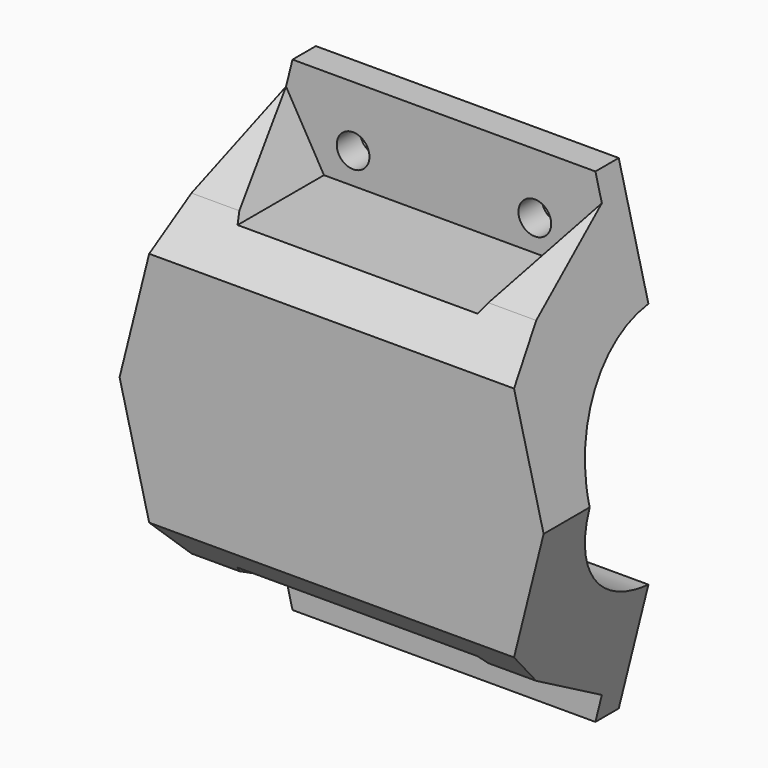
from build123d import *

# Parameters (mm, degrees)
PAD004_DEPTH         = 30
SKETCH011_R          = 20.5
POCKET004_DEPTH      = 42.931486
POCKET004_DEPTH_BACK = 27.070514
POCKET005_DEPTH      = 263.838706
POCKET005_DEPTH_BACK = 247.977735
SKETCH013_R          = 2.7
POCKET006_DEPTH      = 220.90822
POCKET006_DEPTH_BACK = 250.90822
POCKET007_DEPTH      = 244.092718
SKETCH024_W          = 115.08152
SKETCH024_H          = 98.641312
POCKET017_DEPTH      = 2


with BuildPart() as part:
    # Sketch010 → Pad004 (new body)
    with BuildSketch(Plane.XZ):
        Polygon((-27.069514, 0), (-17.069514, 40), (32.930486, 40), (42.930486, 0), (32.930486, -40), (-17.069514, -40), align=None)
    extrude(amount=PAD004_DEPTH)

    # Sketch011 → Pocket004 (cut, two sides)
    with BuildSketch(Plane.YZ) as pocket004_sk:
        Circle(SKETCH011_R)
    extrude(amount=POCKET004_DEPTH, mode=Mode.SUBTRACT)
    extrude(pocket004_sk.sketch, amount=-POCKET004_DEPTH_BACK, mode=Mode.SUBTRACT)

    # Sketch012 → Pocket005 (cut, two sides)
    with BuildSketch(Plane.YZ) as pocket005_sk:
        Polygon((-36.13987, 42.447654), (-6.815503, 42.447654), (-6.815503, 35.734174), (-23.345354, 26.19066), (-36.13987, 13.396144), align=None)
    pocket005 = extrude(amount=POCKET005_DEPTH, mode=Mode.SUBTRACT) + extrude(pocket005_sk.sketch, amount=-POCKET005_DEPTH_BACK, mode=Mode.SUBTRACT)

    # Mirrored001: Pocket005 across Sketch012 H_Axis
    add(pocket005.mirror(Plane.XY), mode=Mode.SUBTRACT)

    # Sketch013 → Pocket006 (cut, two sides)
    with BuildSketch(Plane.XZ) as pocket006_sk:
        with Locations((-7.069514, 30)):
            Circle(SKETCH013_R)
        with Locations((22.930486, 30)):
            Circle(SKETCH013_R)
    pocket006 = extrude(amount=-POCKET006_DEPTH, mode=Mode.SUBTRACT) + extrude(pocket006_sk.sketch, amount=POCKET006_DEPTH_BACK, mode=Mode.SUBTRACT)

    # Mirrored002: Pocket006 across Sketch013 H_Axis
    add(pocket006.mirror(Plane(origin=(0, 0, 0), x_dir=(0, -1, 0), z_dir=(0, 0, 1))), mode=Mode.SUBTRACT)

    # Sketch014 (on Face5 of Mirrored002) → Pocket007 (cut, through all)
    with BuildSketch(Plane.XZ.offset(6.815503)):
        Polygon((-11.874352, 24.888732), (27.735323, 24.888732), (33.996942, 35.734174), (-18.135971, 35.734174), align=None)
    pocket007 = extrude(amount=POCKET007_DEPTH, mode=Mode.SUBTRACT)

    # Mirrored003: Pocket007 across Sketch014 H_Axis
    add(pocket007.mirror(Plane(origin=(0, -6.815503, 0), x_dir=(0, -1, 0), z_dir=(0, 0, 1))), mode=Mode.SUBTRACT)

    # Sketch024 (on Face12 of Mirrored003) → Pocket017 (cut)
    with BuildSketch(Plane(origin=(0, 0, 0), x_dir=(1, 0, 0), z_dir=(0, 1, 0))):
        with Locations((8.455631, -2.089874)):
            Rectangle(SKETCH024_W, SKETCH024_H)
    extrude(amount=-POCKET017_DEPTH, mode=Mode.SUBTRACT)


with BuildPart() as part_1:
    # Body003 placement: moved
    add(part.part.moved(Location((0, -40, 0))))


solid = part_1.part
